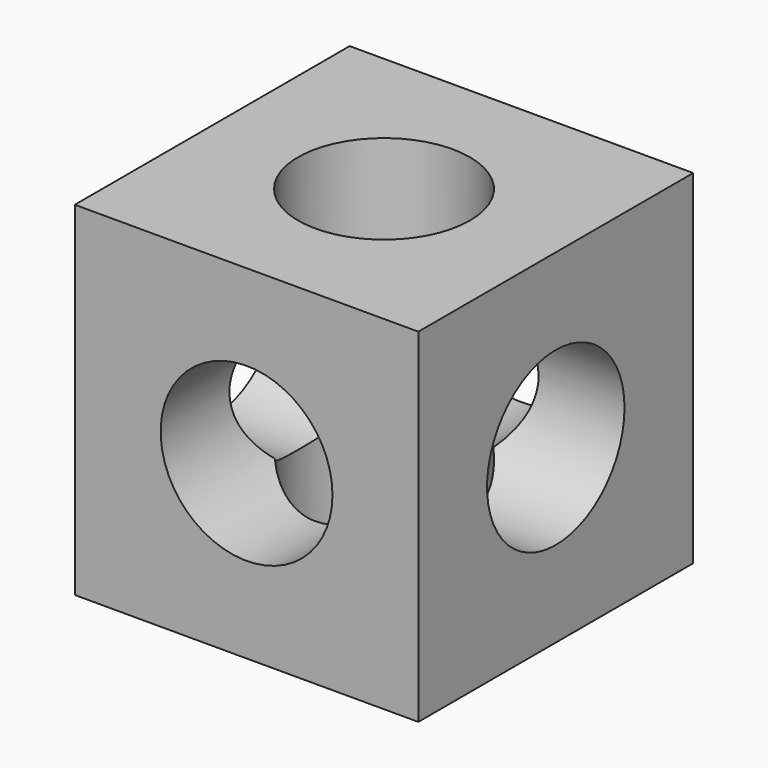
from build123d import *

# Parameters (mm, degrees)
F0_W     = 4
F0_H     = 4
F1_DEPTH = 4
F2_R     = 1
F3_DEPTH = 4
F4_R     = 1
F5_DEPTH = 4
F6_R     = 1
F7_DEPTH = 4


with BuildPart() as f1:
    # F0 (on Front) → F1 (new body)
    with BuildSketch(Plane.XZ):
        with Locations((2, 2)):
            Rectangle(F0_W, F0_H)
    extrude(amount=F1_DEPTH)

    # F2 (on face) → F3 (cut)
    with BuildSketch(Plane.XZ.offset(4)):
        with Locations((2, 2)):
            Circle(F2_R)
    extrude(amount=-F3_DEPTH, mode=Mode.SUBTRACT)

    # F4 (on face) → F5 (cut)
    with BuildSketch(Plane.YZ.offset(4)):
        with Locations((-2, 2)):
            Circle(F4_R)
    extrude(amount=-F5_DEPTH, mode=Mode.SUBTRACT)

    # F6 (on face) → F7 (cut)
    with BuildSketch(Plane.XY.offset(4)):
        with Locations((2, -2)):
            Circle(F6_R)
    extrude(amount=-F7_DEPTH, mode=Mode.SUBTRACT)


solid = f1.part
